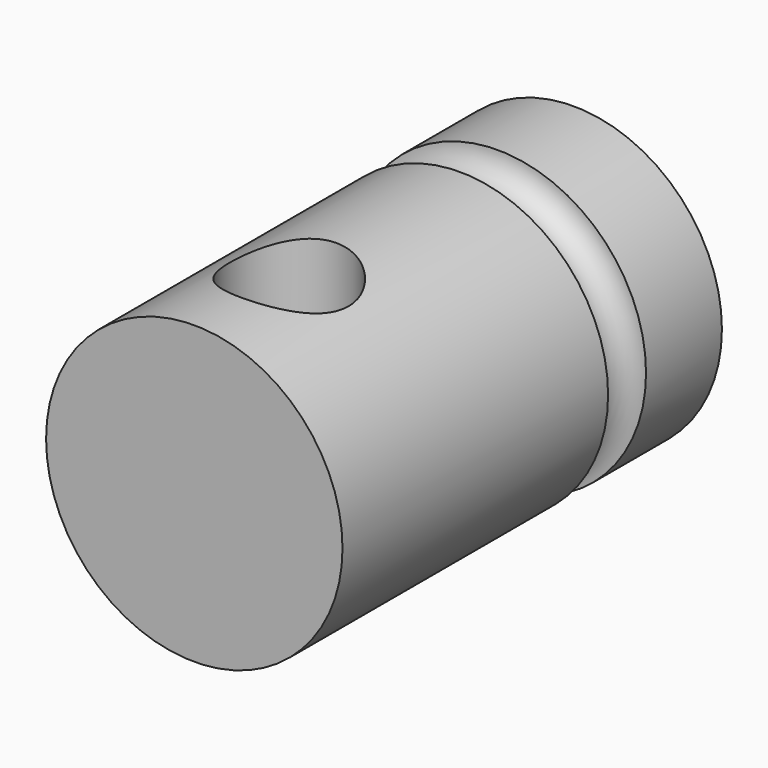
from build123d import *

# Parameters (mm, degrees)
F0_R          = 15.875
F1_DEPTH      = 50.8
F4_R          = 2.54
F6_R          = 6.35
F7_DEPTH      = 15.875
F7_DEPTH_BACK = 15.875


with BuildPart() as f1:
    # F0 (on Front) → F1 (new body)
    with BuildSketch(Plane.XZ):
        Circle(F0_R)
    extrude(amount=F1_DEPTH)

    # F5: sweep along a path in F3
    with BuildLine(Plane(origin=(0, -12.7, 0), x_dir=(-1, 0, 0), z_dir=(0, 1, 0))) as f5_path:
        CenterArc((0, 0), 15.875, 0, 360)
    # F4 (on Right) → F5 (sweep, cut)
    with BuildSketch(Plane.YZ):
        with Locations((-12.7, 15.875)):
            Circle(F4_R)
    sweep(path=f5_path.line, mode=Mode.SUBTRACT)

    # F6 (on Top) → F7 (cut, two sides)
    with BuildSketch(Plane.XY) as f7_sk:
        with Locations((0, -38.1)):
            Circle(F6_R)
    extrude(amount=-F7_DEPTH, mode=Mode.SUBTRACT)
    extrude(f7_sk.sketch, amount=F7_DEPTH_BACK, mode=Mode.SUBTRACT)


solid = f1.part
